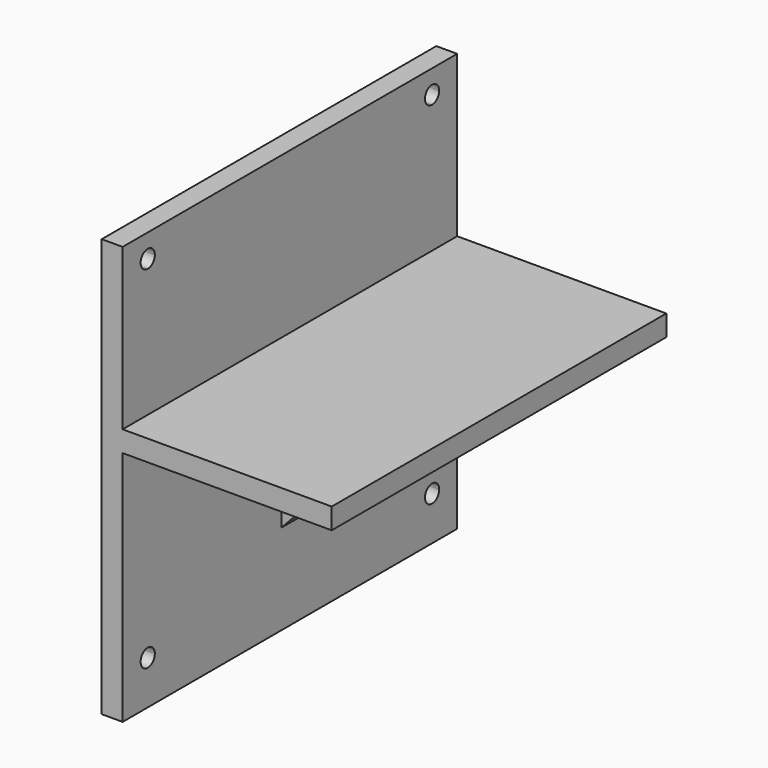
from build123d import *

# Parameters (mm, degrees)
F1_DEPTH = 200
F2_W     = 10
F2_H     = 70
F3_DEPTH = 70
F5_DEPTH = 100
F6_DEPTH = 75.001


with BuildPart() as f1:
    # F0 (on Front) → F1 (new body)
    with BuildSketch(Plane.XZ):
        Polygon((5, 100), (-5, 100), (-5, 23.2), (-5, 13.2), (-5, -100), (5, -100), (5, 13.2), (105, 13.2), (105, 23.2), (5, 23.2), align=None)
    extrude(amount=F1_DEPTH)

    # F2 (on Right) → F3 (join)
    with BuildSketch(Plane.YZ):
        with Locations((-100, -21.8)):
            Rectangle(F2_W, F2_H)
        with BuildLine():
            Line((-185, 84.6313585043), (-185, 88.8813585043))
            Line((-185, 88.8813585043), (-180.75, 88.8813585043))
            ThreePointArc((-180.75, 88.8813585043), (-188.00520382, 91.8865623243), (-185, 84.6313585043))
        make_face()
        with BuildLine():
            Line((-180.75, 88.8813585043), (-185, 88.8813585043))
            Line((-185, 88.8813585043), (-185, 84.6313585043))
            ThreePointArc((-185, 84.6313585043), (-181.99479618, 85.8761546843), (-180.75, 88.8813585043))
        make_face()
        with BuildLine():
            Line((-185, -74.8090941906), (-185, -79.0590941906))
            Line((-185, -79.0590941906), (-180.75, -79.0590941906))
            ThreePointArc((-180.75, -79.0590941906), (-181.99479618, -76.0538903706), (-185, -74.8090941906))
        make_face()
        with BuildLine():
            Line((-180.75, -79.0590941906), (-185, -79.0590941906))
            Line((-185, -79.0590941906), (-185, -74.8090941906))
            ThreePointArc((-185, -74.8090941906), (-188.00520382, -82.0642980106), (-180.75, -79.0590941906))
        make_face()
        with BuildLine():
            Line((-19.25, -79.0590941906), (-15, -79.0590941906))
            Line((-15, -79.0590941906), (-15, -74.8090941906))
            ThreePointArc((-15, -74.8090941906), (-18.00520382, -76.0538903706), (-19.25, -79.0590941906))
        make_face()
        with BuildLine():
            Line((-15, -74.8090941906), (-15, -79.0590941906))
            Line((-15, -79.0590941906), (-19.25, -79.0590941906))
            ThreePointArc((-19.25, -79.0590941906), (-15, -83.3090941906), (-10.75, -79.0590941906))
            ThreePointArc((-10.75, -79.0590941906), (-11.99479618, -76.0538903706), (-15, -74.8090941906))
        make_face()
        with BuildLine():
            ThreePointArc((-15, 84.6313585043), (-11.99479618, 85.8761546843), (-10.75, 88.8813585043))
            ThreePointArc((-10.75, 88.8813585043), (-15, 93.1313585043), (-19.25, 88.8813585043))
            Line((-19.25, 88.8813585043), (-15, 88.8813585043))
            Line((-15, 88.8813585043), (-15, 84.6313585043))
        make_face()
        with BuildLine():
            Line((-15, 88.8813585043), (-19.25, 88.8813585043))
            ThreePointArc((-19.25, 88.8813585043), (-18.00520382, 85.8761546843), (-15, 84.6313585043))
            Line((-15, 84.6313585043), (-15, 88.8813585043))
        make_face()
    extrude(amount=F3_DEPTH)

    # F4 (on face) → F5 (cut)
    with BuildSketch(Plane.XZ.offset(105)):
        Polygon((5, -56.8), (70, -56.8), (70, 13.2), align=None)
    extrude(amount=-F5_DEPTH, mode=Mode.SUBTRACT)

    # F6 (cut, through all): faces of the model
    f6_faces = [f1.faces().sort_by_distance(p)[0] for p in [
        (70, -185, 88.8813585043),
        (70, -15, 88.8813585043),
        (70, -15, -79.0590941906),
        (70, -185, -79.0590941906),
    ]]
    extrude(f6_faces, amount=-F6_DEPTH, mode=Mode.SUBTRACT)


solid = f1.part
